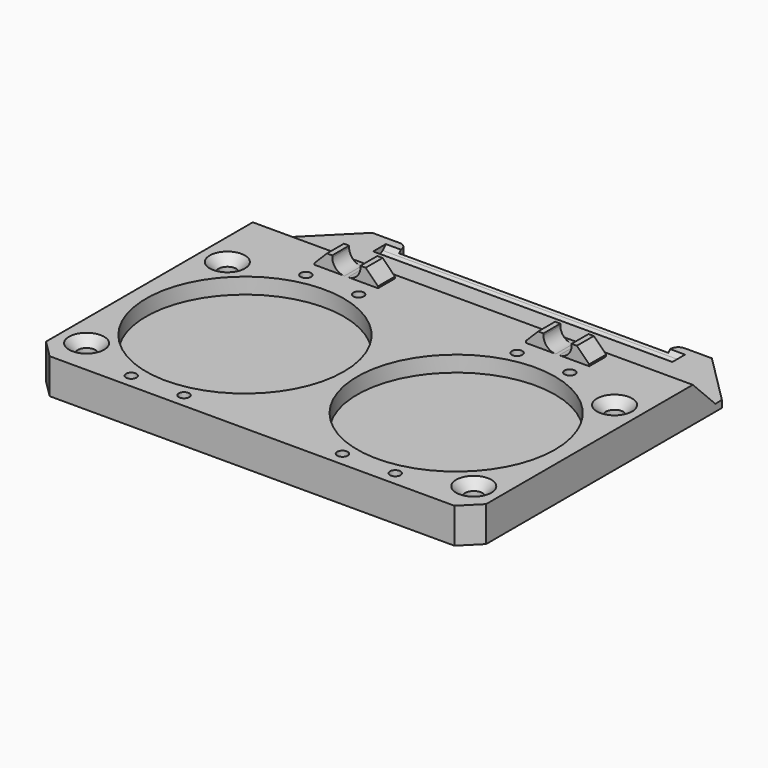
from build123d import *

# Parameters (mm, degrees)
PAD_DEPTH            = 10
SKETCH001_R          = 28.1
SKETCH001_R_2        = 1.5
POCKET_DEPTH         = 4.5
POCKET001_DEPTH      = 62.501
POCKET001_DEPTH_BACK = -62.501
HOLE_D               = 5
HOLE_DEPTH           = 25
HOLE_CSINK_D         = 10
HOLE_CSINK_ANGLE     = 90
SKETCH005_W          = 5
SKETCH005_H          = 6
PAD001_DEPTH         = 4
POCKET002_DEPTH      = 42.5
CHAMFER_SIZE         = 3.5
FILLET_R             = 3.5


with BuildPart() as part:
    # Sketch → Pad (new body)
    with BuildSketch(Plane.XY):
        with BuildLine():
            Line((-48.25, -48.4), (-40.5, -48.4))
            ThreePointArc((-38.25, -50.65), (-38.90901, -49.05901), (-40.5, -48.4))
            Line((-38.25, -50.65), (-38.25, -51.4))
            Line((-38.25, -51.4), (38.25, -51.4))
            Line((38.25, -51.4), (38.25, -50.65))
            ThreePointArc((40.5, -48.4), (38.90901, -49.05901), (38.25, -50.65))
            Line((40.5, -48.4), (48.25, -48.4))
            Line((48.25, -48.4), (62.5, -62.65))
            Line((62.5, -62.65), (62.5, -146.4))
            Line((57.5, -151.4), (62.5, -146.4))
            Line((-57.5, -151.4), (57.5, -151.4))
            Line((-62.5, -146.4), (-57.5, -151.4))
            Line((-62.5, -146.4), (-62.5, -62.65))
            Line((-62.5, -62.65), (-48.25, -48.4))
        make_face()
    extrude(amount=PAD_DEPTH)

    # Sketch001 → Pocket (cut)
    with BuildSketch(Plane.XY.offset(10)):
        with Locations((-30, -116.4)):
            Circle(SKETCH001_R)
        with Locations((30, -116.4)):
            Circle(SKETCH001_R)
        with Locations((-37.5, -85.4)):
            Circle(SKETCH001_R_2)
        with Locations((-22.5, -85.4)):
            Circle(SKETCH001_R_2)
        with Locations((22.5, -85.4)):
            Circle(SKETCH001_R_2)
        with Locations((37.5, -85.4)):
            Circle(SKETCH001_R_2)
        with Locations((-37.5, -147.4)):
            Circle(SKETCH001_R_2)
        with Locations((-22.5, -147.4)):
            Circle(SKETCH001_R_2)
        with Locations((22.5, -147.4)):
            Circle(SKETCH001_R_2)
        with Locations((37.5, -147.4)):
            Circle(SKETCH001_R_2)
    extrude(amount=-POCKET_DEPTH, mode=Mode.SUBTRACT)

    # Sketch002 → Pocket001 (cut, two sides)
    with BuildSketch(Plane.YZ) as pocket001_sk:
        Polygon((0, 2), (-65, 2), (-85, 22), (0, 22), align=None)
    extrude(amount=-POCKET001_DEPTH, mode=Mode.SUBTRACT)
    extrude(pocket001_sk.sketch, amount=-POCKET001_DEPTH_BACK, mode=Mode.SUBTRACT)

    # Hole
    with Locations(Plane.XY.offset(10)):
        with Locations((-55, -91.4), (55, -91.4), (55, -141.4), (-55, -141.4)):
            CounterSinkHole(HOLE_D / 2, HOLE_CSINK_D / 2, depth=HOLE_DEPTH, counter_sink_angle=HOLE_CSINK_ANGLE)

    # Sketch005 (on Face6 of Hole) → Pad001 (join)
    with BuildSketch(Plane.XY.offset(10)):
        with Locations((-36.5, -77.4)):
            Rectangle(SKETCH005_W, SKETCH005_H)
        with Locations((-23.5, -77.4)):
            Rectangle(SKETCH005_W, SKETCH005_H)
        with Locations((23.5, -77.4)):
            Rectangle(SKETCH005_W, SKETCH005_H)
        with Locations((36.5, -77.4)):
            Rectangle(SKETCH005_W, SKETCH005_H)
    extrude(amount=PAD001_DEPTH)

    # Sketch006 → Pocket002 (cut, symmetric)
    with BuildSketch(Plane.YZ):
        with BuildLine():
            ThreePointArc((-54.131371, 0.868629), (-53, 0.4), (-51.868629, 0.868629))
            Line((-51.868629, 0.868629), (-37.737258, 15))
            Line((-68.262742, 15), (-37.737258, 15))
            Line((-54.131371, 0.868629), (-68.262742, 15))
        make_face()
    extrude(amount=POCKET002_DEPTH, both=True, mode=Mode.SUBTRACT)

    # Chamfer
    chamfer_edges = [part.edges().sort_by_distance(p)[0] for p in [
        (39, -77.4, 14),
        (21, -77.4, 14),
        (-21, -77.4, 14),
        (-39, -77.4, 14),
    ]]
    chamfer(chamfer_edges, length=CHAMFER_SIZE)

    # Fillet
    fillet_edges = [part.edges().sort_by_distance(p)[0] for p in [
        (-34, -77.4, 10),
        (26, -77.4, 10),
        (-26, -77.4, 10),
        (34, -77.4, 10),
    ]]
    fillet(fillet_edges, radius=FILLET_R)


solid = part.part
